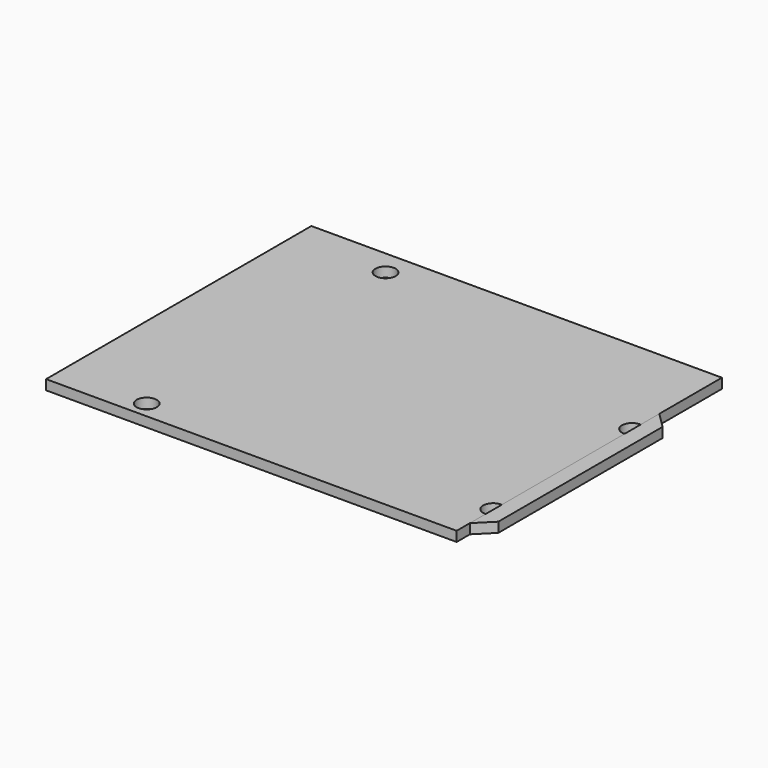
from build123d import *

# Parameters (mm, degrees)
F1_R     = 1.6195
F2_DEPTH = 1.588


with BuildPart() as f2:
    # F1 (on face) → F2 (new body)
    with BuildSketch(Plane.XY):
        with BuildLine():
            ThreePointArc((33.02, 7.1022887549), (31.3055, 8.719), (33.02, 10.3357112451))
            Line((33.02, 10.3357112451), (33.02, 14.097))
            Line((33.02, 14.097), (33.02, 26.67))
            Line((33.02, 26.67), (-33.02, 26.67))
            Line((-33.02, 26.67), (-33.02, -26.67))
            Line((-33.02, -26.67), (33.02, -26.67))
            Line((33.02, -26.67), (33.02, -24.003))
            Line((33.02, -24.003), (33.02, -20.8257112451))
            ThreePointArc((33.02, -20.8257112451), (31.3055, -19.209), (33.02, -17.5922887549))
            Line((33.02, -17.5922887549), (33.02, 7.1022887549))
        make_face()
        with Locations((-19.006, -23.959)):
            Circle(F1_R, mode=Mode.SUBTRACT)
        with Locations((-17.863, 22.64)):
            Circle(F1_R, mode=Mode.SUBTRACT)
    extrude(amount=F2_DEPTH)


with BuildPart() as f2b:
    # F0 (on Top) → F2, piece 2 (new body)
    with BuildSketch(Plane.XY):
        Polygon((35.56, 11.557), (33.02, 14.097), (33.02, -24.003), (35.56, -21.463), align=None)
    extrude(amount=F2_DEPTH)


solid = Compound([f2.part, f2b.part])
